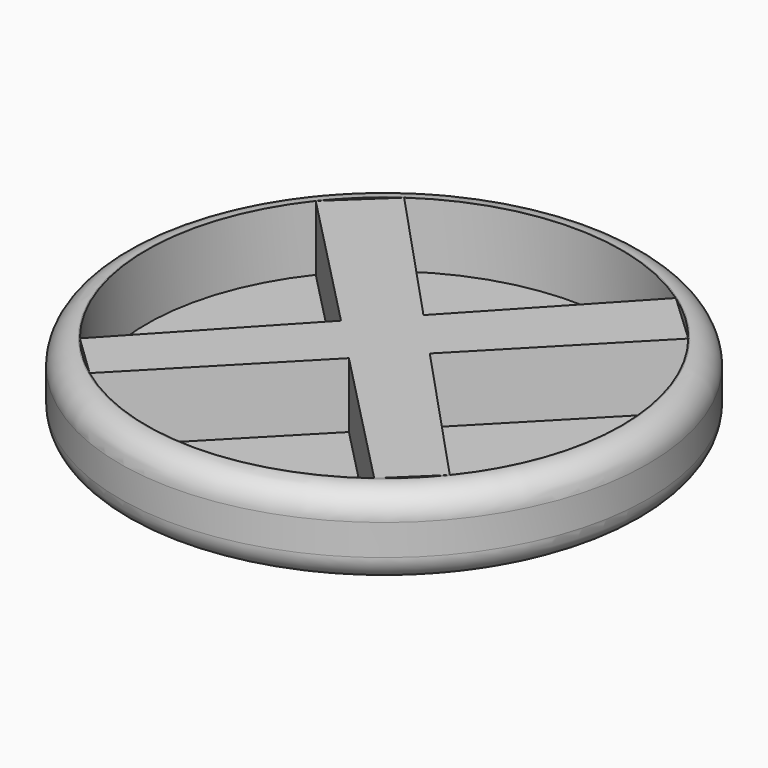
from build123d import *

# Parameters (mm, degrees)
F1_DEPTH = 25.4
F0_R     = 82.4668975971
F2_DEPTH = 5.08
F3_R     = 7.874


with BuildPart() as f1:
    # F0 (on Top) → F1 (new body)
    with BuildSketch(Plane.XY):
        Polygon((0, 15.3806885805), (-42.4453695306, 60.8835004164), (-58.196512046, 46.0605688547), (-13.870812228, 0.5107283044), align=None)
        Polygon((13.870812228, 0.5107283044), (58.196512046, 46.0605688547), (42.4453695306, 60.8835004164), (0, 15.3806885805), align=None)
        Polygon((0, -13.7431534816), (13.870812228, 0.5107283044), (0, 15.3806885805), (-13.870812228, 0.5107283044), align=None)
        Polygon((-44.4584567484, -59.429417304), (0, -13.7431534816), (-13.870812228, 0.5107283044), (-57.7889264788, -46.5709136047), align=None)
        Polygon((44.4584567484, -59.429417304), (57.7889264788, -46.5709136047), (13.870812228, 0.5107283044), (0, -13.7431534816), align=None)
    extrude(amount=F1_DEPTH)


with BuildPart() as f1b:
    # F0 (on Top) → F1, piece 2 (new body)
    with BuildSketch(Plane.XY):
        Circle(F0_R)
        with BuildLine():
            ThreePointArc((58.196512046, 46.0605688547), (70.0987780359, 24.383833485), (74.2186635392, 0))
            ThreePointArc((74.2186635392, 0), (69.990809783, -24.6920344132), (57.7889264788, -46.5709136047))
            ThreePointArc((57.7889264788, -46.5709136047), (51.5263730875, -53.4176271843), (44.4584567484, -59.429417304))
            ThreePointArc((44.4584567484, -59.429417304), (0, -74.2186635392), (-44.4584567484, -59.429417304))
            ThreePointArc((-44.4584567484, -59.429417304), (-51.5263730875, -53.4176271843), (-57.7889264788, -46.5709136047))
            ThreePointArc((-57.7889264788, -46.5709136047), (-74.2179450881, -0.3265646025), (-58.196512046, 46.0605688547))
            ThreePointArc((-58.196512046, 46.0605688547), (-50.8638074356, 54.0488955549), (-42.4453695306, 60.8835004164))
            ThreePointArc((-42.4453695306, 60.8835004164), (0, 74.2186635392), (42.4453695306, 60.8835004164))
            ThreePointArc((42.4453695306, 60.8835004164), (50.8638074356, 54.0488955549), (58.196512046, 46.0605688547))
        make_face(mode=Mode.SUBTRACT)
    extrude(amount=F1_DEPTH)

    # F3
    f3_edges = [f1b.edges().sort_by_distance(p)[0] for p in [
        (-82.466898, 0, 25.4),
        (-82.466898, 0, 0),
    ]]
    fillet(f3_edges, radius=F3_R)


with BuildPart() as f2:
    # F0 (on Top) → F2 (new body)
    with BuildSketch(Plane.XY):
        with BuildLine():
            Line((-13.870812228, 0.5107283044), (-58.196512046, 46.0605688547))
            ThreePointArc((-58.196512046, 46.0605688547), (-74.2179450881, -0.3265646025), (-57.7889264788, -46.5709136047))
            Line((-57.7889264788, -46.5709136047), (-13.870812228, 0.5107283044))
        make_face()
    extrude(amount=F2_DEPTH)


with BuildPart() as f2b:
    # F0 (on Top) → F2, piece 2 (new body)
    with BuildSketch(Plane.XY):
        with BuildLine():
            Line((0, 15.3806885805), (42.4453695306, 60.8835004164))
            ThreePointArc((42.4453695306, 60.8835004164), (0, 74.2186635392), (-42.4453695306, 60.8835004164))
            Line((-42.4453695306, 60.8835004164), (0, 15.3806885805))
        make_face()
    extrude(amount=F2_DEPTH)


with BuildPart() as f2c:
    # F0 (on Top) → F2, piece 3 (new body)
    with BuildSketch(Plane.XY):
        with BuildLine():
            ThreePointArc((57.7889264788, -46.5709136047), (69.990809783, -24.6920344132), (74.2186635392, 0))
            ThreePointArc((74.2186635392, 0), (70.0987780359, 24.383833485), (58.196512046, 46.0605688547))
            Line((58.196512046, 46.0605688547), (13.870812228, 0.5107283044))
            Line((13.870812228, 0.5107283044), (57.7889264788, -46.5709136047))
        make_face()
    extrude(amount=F2_DEPTH)


with BuildPart() as f2d:
    # F0 (on Top) → F2, piece 4 (new body)
    with BuildSketch(Plane.XY):
        with BuildLine():
            ThreePointArc((-44.4584567484, -59.429417304), (0, -74.2186635392), (44.4584567484, -59.429417304))
            Line((44.4584567484, -59.429417304), (0, -13.7431534816))
            Line((0, -13.7431534816), (-44.4584567484, -59.429417304))
        make_face()
    extrude(amount=F2_DEPTH)


solid = Compound([f1.part, f1b.part, f2.part, f2b.part, f2c.part, f2d.part])
